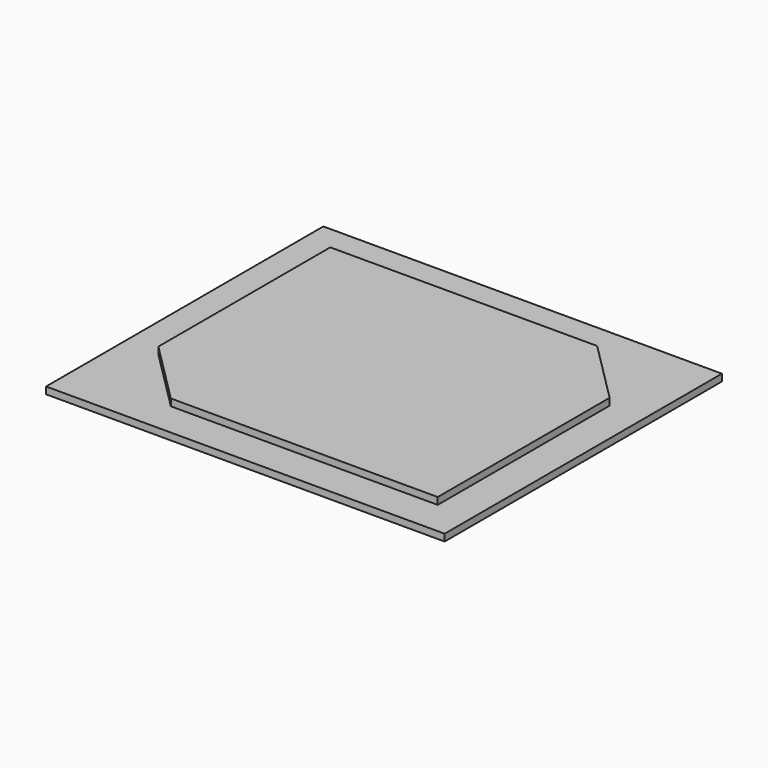
from build123d import *

# Parameters (mm, degrees)
F0_W     = 47.5
F0_H     = 40
F1_DEPTH = 2
F0_W_2   = 57.5
F0_H_2   = 50
F2_DEPTH = 1
F3_SIZE  = 9


with BuildPart() as f1:
    # F0 (on Top) → F1 (new body)
    with BuildSketch(Plane.XY):
        Rectangle(F0_W, F0_H)
    extrude(amount=F1_DEPTH)

    # F0 (on Top) → F2 (join)
    with BuildSketch(Plane.XY):
        Rectangle(F0_W_2, F0_H_2)
        Rectangle(F0_W, F0_H, mode=Mode.SUBTRACT)
    extrude(amount=F2_DEPTH)

    # F3
    f3_edges = [f1.edges().sort_by_distance(p)[0] for p in [
        (-23.75, -20, 1.5),
        (23.75, 20, 1.5),
    ]]
    chamfer(f3_edges, length=F3_SIZE)


solid = f1.part
